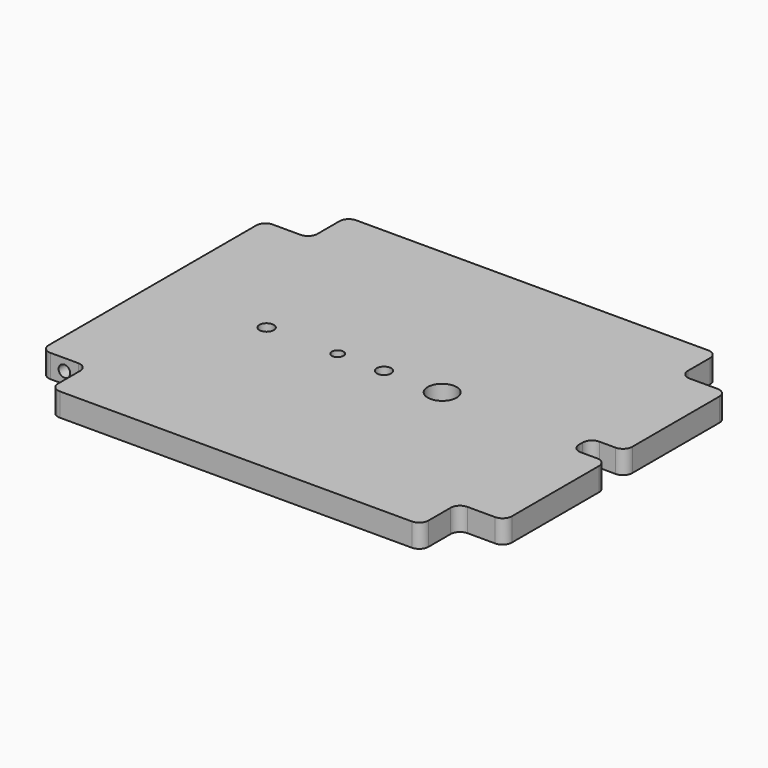
from build123d import *

# Parameters (mm, degrees)
F0_W      = 254
F0_H      = 152.4
F1_DEPTH  = 12.7
F2_W      = 203.2
F2_H      = 12.7
F3_DEPTH  = 25.4
F4_W      = 203.2
F4_H      = 12.7
F5_DEPTH  = 25.4
F6_R      = 3.175
F7_DEPTH  = 12.7
F8_R      = 3.175
F9_DEPTH  = 12.7
F10_W     = 19.05
F10_H     = 12.7
F11_DEPTH = 25.4
F12_R     = 5.08
F13_R     = 3.937
F14_DEPTH = 25.4
F15_R     = 7.9375
F16_DEPTH = 25.4
F17_R     = 3.9624
F18_DEPTH = 25.4
F19_R     = 3.175
F20_DEPTH = 25.4


with BuildPart() as f1:
    # F0 (on Top) → F1 (new body)
    with BuildSketch(Plane.XY):
        Rectangle(F0_W, F0_H)
    extrude(amount=F1_DEPTH)

    # F2 (on face) → F3 (join)
    with BuildSketch(Plane(origin=(0, 76.2, 0), x_dir=(-1, 0, 0), z_dir=(0, 1, 0))):
        with Locations((0, 6.35)):
            Rectangle(F2_W, F2_H)
    extrude(amount=F3_DEPTH)

    # F4 (on face) → F5 (join)
    with BuildSketch(Plane.XZ.offset(76.2)):
        with Locations((0, 6.35)):
            Rectangle(F4_W, F4_H)
    extrude(amount=F5_DEPTH)

    # F6 (on face) → F7 (cut)
    with BuildSketch(Plane.XZ.offset(76.2)):
        with Locations((-114.3, 6.35)):
            Circle(F6_R)
    extrude(amount=-F7_DEPTH, mode=Mode.SUBTRACT)

    # F8 (on face) → F9 (cut)
    with BuildSketch(Plane(origin=(0, 76.2, 0), x_dir=(-1, 0, 0), z_dir=(0, 1, 0))):
        with Locations((114.3, 6.35)):
            Circle(F8_R)
    extrude(amount=-F9_DEPTH, mode=Mode.SUBTRACT)

    # F10 (on face) → F11 (cut)
    with BuildSketch(Plane.XY.offset(12.7)):
        with Locations((117.475, 0)):
            Rectangle(F10_W, F10_H)
    extrude(amount=-F11_DEPTH, mode=Mode.SUBTRACT)

    # F12
    f12_edges = [f1.edges().sort_by_distance(p)[0] for p in [
        (101.6, -101.6, 6.35),
        (127, -76.2, 6.35),
        (127, -6.35, 6.35),
        (127, 6.35, 6.35),
        (107.95, 6.35, 6.35),
        (107.95, -6.35, 6.35),
        (127, 76.2, 6.35),
        (101.6, 76.2, 6.35),
        (101.6, 101.6, 6.35),
        (101.6, -76.2, 6.35),
        (-101.6, -101.6, 6.35),
        (-101.6, -76.2, 6.35),
        (-127, -76.2, 6.35),
        (-127, 76.2, 6.35),
        (-101.6, 76.2, 6.35),
        (-101.6, 101.6, 6.35),
    ]]
    fillet(f12_edges, radius=F12_R)

    # F13 (on face) → F14 (cut)
    with BuildSketch(Plane.XY.offset(12.7)):
        Circle(F13_R)
    extrude(amount=-F14_DEPTH, mode=Mode.SUBTRACT)

    # F15 (on face) → F16 (cut)
    with BuildSketch(Plane.XY.offset(12.7)):
        with Locations((31.9151, 0)):
            Circle(F15_R)
    extrude(amount=-F16_DEPTH, mode=Mode.SUBTRACT)

    # F17 (on face) → F18 (cut)
    with BuildSketch(Plane.XY.offset(12.7)):
        with Locations((-64.36106, 0)):
            Circle(F17_R)
    extrude(amount=-F18_DEPTH, mode=Mode.SUBTRACT)

    # F19 (on face) → F20 (cut)
    with BuildSketch(Plane.XY.offset(12.7)):
        with Locations((-25.4, 0)):
            Circle(F19_R)
    extrude(amount=-F20_DEPTH, mode=Mode.SUBTRACT)


solid = f1.part
